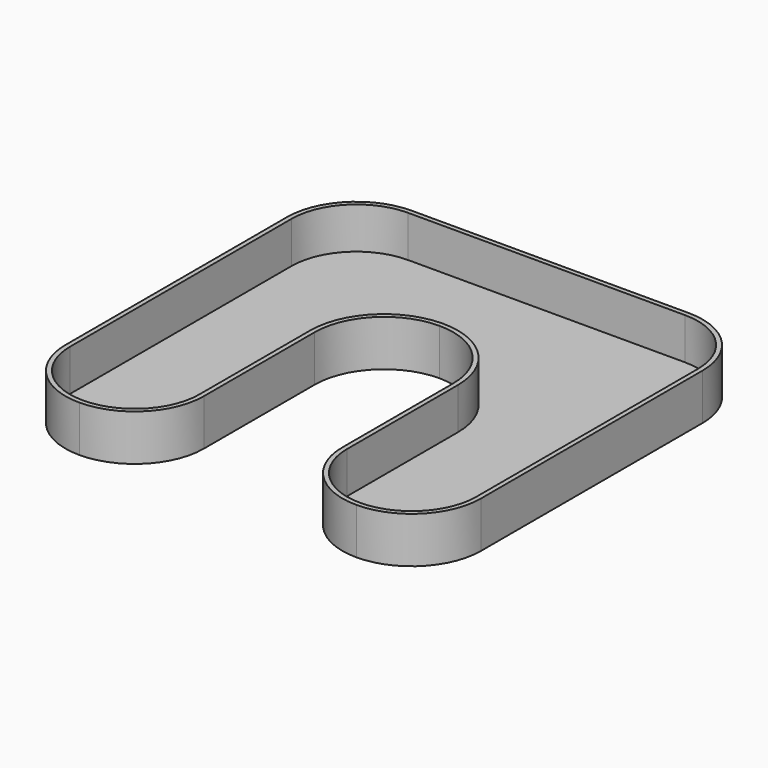
from build123d import *

# Parameters (mm, degrees)
F1_DEPTH = 10
F2_T     = -1


with BuildPart() as f1:
    # F0 (on Top) → F1 (new body)
    with BuildSketch(Plane.XY):
        with BuildLine():
            Line((68.022902, 90), (8.022902, 90))
            ThreePointArc((8.022902, 90), (-2.5837, 85.606602), (-6.977098, 75))
            Line((-6.977098, 75), (-6.977098, 15))
            ThreePointArc((-6.977098, 15), (-2.5837, 4.393398), (8.022902, 0))
            ThreePointArc((8.022902, 0), (18.629504, 4.393398), (23.022902, 15))
            Line((23.022902, 15), (23.022902, 17.925972))
            Line((23.022902, 17.925972), (23.022902, 45))
            ThreePointArc((23.022902, 45), (27.4163, 55.606602), (38.022902, 60))
            ThreePointArc((38.022902, 60), (48.629504, 55.606602), (53.022902, 45))
            Line((53.022902, 45), (53.022902, 17.925972))
            Line((53.022902, 17.925972), (53.022902, 15))
            ThreePointArc((53.022902, 15), (57.4163, 4.393398), (68.022902, 0))
            ThreePointArc((68.022902, 0), (78.629504, 4.393398), (83.022902, 15))
            Line((83.022902, 15), (83.022902, 75))
            ThreePointArc((83.022902, 75), (78.629504, 85.606602), (68.022902, 90))
        make_face()
    extrude(amount=F1_DEPTH)

    # F2
    f2_openings = [f1.faces().sort_by_distance(p)[0] for p in [
        (68.022902, 1.272792, 10),
    ]]
    offset(amount=F2_T, openings=f2_openings)


solid = f1.part
